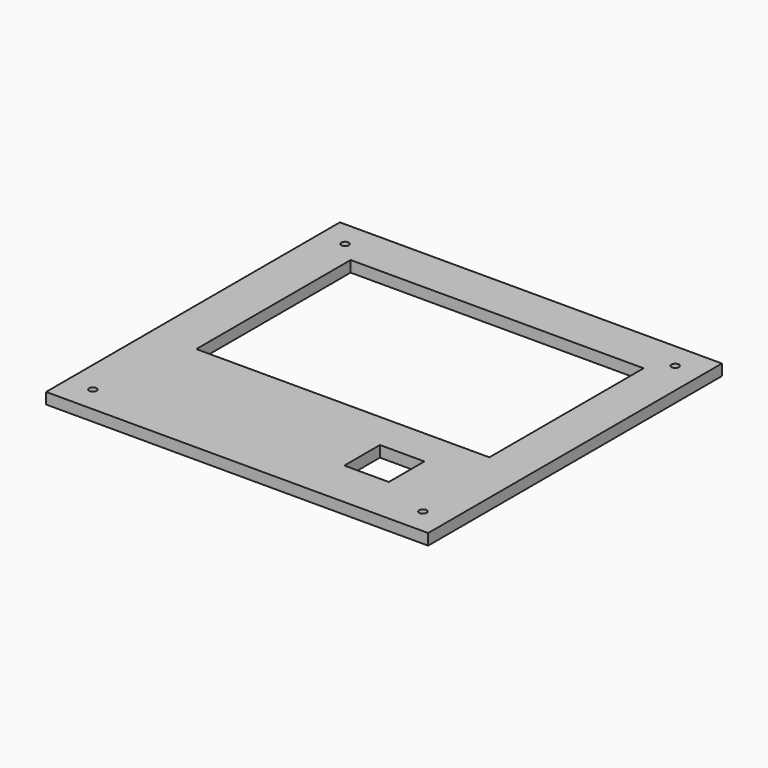
from build123d import *

# Parameters (mm, degrees)
F0_W     = 103
F0_H     = 99
F3_DEPTH = 3
F1_W     = 79
F1_H     = 52
F4_DEPTH = 3.001
F2_W     = 12
F2_H     = 12
F5_DEPTH = 3.001
F6_R     = 1
F7_DEPTH = 3.001


with BuildPart() as f3:
    # F0 (on Top) → F3 (new body)
    with BuildSketch(Plane.XY):
        with Locations((1.623269, -13.150178)):
            Rectangle(F0_W, F0_H)
    extrude(amount=-F3_DEPTH)

    # F1 (on face) → F4 (cut, through all)
    with BuildSketch(Plane.XY):
        with Locations((2.123269, -1.650178)):
            Rectangle(F1_W, F1_H)
    extrude(amount=-F4_DEPTH, mode=Mode.SUBTRACT)

    # F2 (on Top) → F5 (cut, through all)
    with BuildSketch(Plane.XY):
        with Locations((26.123269, -43.650178)):
            Rectangle(F2_W, F2_H)
    extrude(amount=-F5_DEPTH, mode=Mode.SUBTRACT)

    # F6 (on face) → F7 (cut, through all)
    with BuildSketch(Plane.XY):
        with Locations((-42.876731, 29.349822)):
            Circle(F6_R)
        with Locations((-134.126731, 29.349822)):
            Circle(F6_R)
        with Locations((46.123269, 29.349822)):
            Circle(F6_R)
        with Locations((-42.876731, -55.650178)):
            Circle(F6_R)
        with Locations((46.123269, -55.650178)):
            Circle(F6_R)
    extrude(amount=-F7_DEPTH, mode=Mode.SUBTRACT)


solid = f3.part
